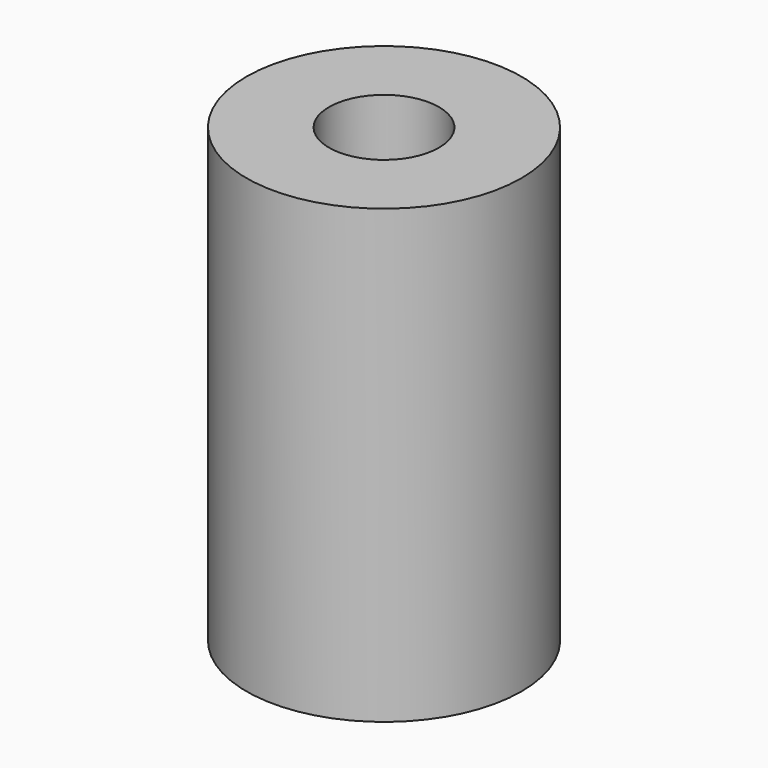
from build123d import *

# Parameters (mm, degrees)
F0_R     = 7
F1_DEPTH = 23
F2_R     = 2.8
F3_DEPTH = 23.001
F4_R     = 3.2
F5_DEPTH = 4
F6_R     = 3
F7_DEPTH = 7


with BuildPart() as f1:
    # F0 (on Top) → F1 (new body)
    with BuildSketch(Plane.XY):
        Circle(F0_R)
    extrude(amount=F1_DEPTH)

    # F2 (on face) → F3 (cut, through all)
    with BuildSketch(Plane.XY.offset(23)):
        Circle(F2_R)
    extrude(amount=-F3_DEPTH, mode=Mode.SUBTRACT)

    # F4 (on face) → F5 (cut)
    with BuildSketch(Plane(origin=(0, 0, 0), x_dir=(1, 0, 0), z_dir=(0, 0, -1))):
        Circle(F4_R)
    extrude(amount=-F5_DEPTH, mode=Mode.SUBTRACT)

    # F6 (on face) → F7 (cut)
    with BuildSketch(Plane(origin=(0, 0, 4), x_dir=(1, 0, 0), z_dir=(0, 0, -1))):
        Circle(F6_R)
    extrude(amount=-F7_DEPTH, mode=Mode.SUBTRACT)


solid = f1.part
